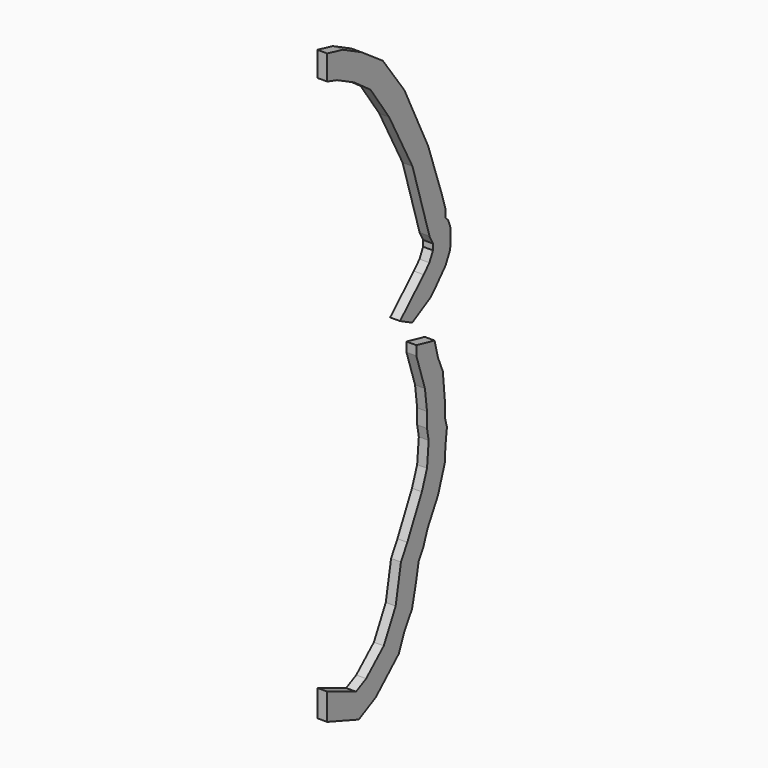
from build123d import *

# Parameters (mm, degrees)
F1_DEPTH = 34.925


with BuildPart() as f1:
    # F0 (on Right) → F1 (new body, symmetric)
    with BuildSketch(Plane.YZ):
        Polygon((0, 288.4383324932), (0, 98.9444055849), (280.0620654468, 0), (430.0150184347, 77.319231603), (633.4724769681, 265.6294692215), (681.5507660952, 381.5829260522), (750.8400587308, 497.53646993), (786.1917457528, 648.8416573063), (810.2308685546, 773.2796025876), (851.2387941632, 842.5688952232), (888.0045625936, 942.9676306555), (981.332978031, 1114.0697401319), (1041.818667261, 1293.323121461), (1046.1392539466, 1390.7946343878), (1059.8014826457, 1505.9933051371), (1040.8003893715, 1580.4141159696), (1040.8003893715, 1686.5032124823), (1023.3827713143, 1868.5966820917), (980.6304202564, 1971.519176359), (950.5453486517, 2090.2757264193), (789.0364475335, 2126.6943507034), (789.0364475335, 2060.1906548145), (865.0406465359, 1825.8443310337), (883.5493139235, 1675.4193211989), (883.5493139235, 1569.3300505919), (898.2924944803, 1488.57568708), (883.5493139235, 1321.0926510808), (837.9264951201, 1192.6729067311), (709.059110657, 930.1335688091), (652.8533135568, 830.3946509868), (605.8458788148, 574.674066715), (500.5491292409, 369.7215293739), (344.484354498, 228.6991381008), (254.9843610012, 183.8964778096), align=None)
    extrude(amount=F1_DEPTH, both=True)


with BuildPart() as f1b:
    # F0 (on Right) → F1, piece 2 (new body, symmetric)
    with BuildSketch(Plane.YZ):
        Polygon((644.4351985795, 2335.862626404), (752.4240562309, 2281.8681322929), (916.1863476489, 2373.813803306), (950.5453486517, 2409.0795747632), (1047.4004228118, 2517.58181849), (1085.5273186177, 2593.835817551), (1092.9416490606, 2634.4873720124), (1092.9416490606, 2733.3478967603), (1069.9060931753, 2793.8160895076), (1046.3284945118, 2815.1017359713), (1046.3284945118, 2872.5716757157), (1017.5935246397, 2967.6179672131), (893.6371243477, 3325.7342362303), (683.1197479571, 3759.9499338628), (491.8840178957, 4021.3512169782), (302.2993654735, 4151.2267168854), (219.2011226336, 4192.7757252708), (138.3042560894, 4233.2240485028), (0, 4266.2431322929), (0, 4090.919669914), (86.4666689905, 4064.6409925703), (238.8104295013, 3988.4693195408), (383.5369175828, 3884.3678582931), (548.5366388106, 3646.3392604298), (754.7791176348, 3255.9265776491), (905.5881796194, 2758.641543493), (936.4049698033, 2700.3060066095), (936.4049698033, 2657.8292469175), (904.4083421673, 2593.835817551), (854.4134917961, 2539.8414975343), align=None)
    extrude(amount=F1_DEPTH, both=True)


solid = Compound([f1.part, f1b.part])
